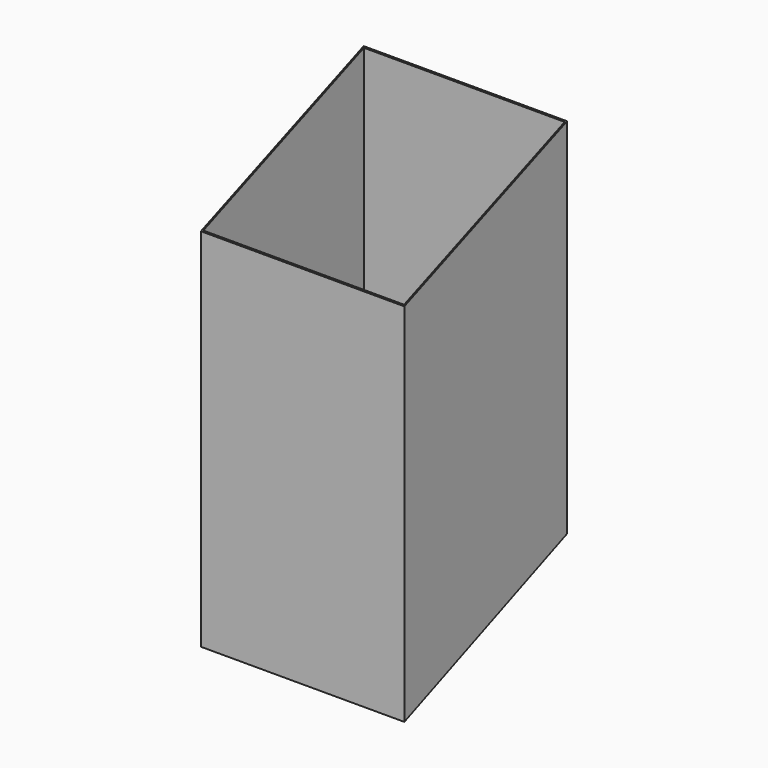
from build123d import *

# Parameters (mm, degrees)
F0_W          = 456
F0_H          = 456
F0_W_2        = 450
F0_H_2        = 450
F2_DEPTH      = 1000
F3_DEPTH      = 228.001
F3_DEPTH_BACK = 228.001
F5_DEPTH      = 456.001


with BuildPart() as f2:
    # F0 (on Top) → F2 (new body)
    with BuildSketch(Plane.XY):
        Rectangle(F0_W, F0_H)
        Rectangle(F0_W_2, F0_H_2, mode=Mode.SUBTRACT)
    extrude(amount=F2_DEPTH)

    # F1 (on Right) → F3 (cut, two sides)
    with BuildSketch(Plane.YZ) as f3_sk:
        Polygon((-228, -173.997311), (228, -173.997311), (228, 186.002689), (-228, 0), align=None)
    extrude(amount=F3_DEPTH, mode=Mode.SUBTRACT)
    extrude(f3_sk.sketch, amount=-F3_DEPTH_BACK, mode=Mode.SUBTRACT)

    # F4 (on face) → F5 (cut, through all)
    with BuildSketch(Plane.YZ.offset(228)):
        Polygon((-228, 1000), (-228, 820), (228, 1000), align=None)
    extrude(amount=-F5_DEPTH, mode=Mode.SUBTRACT)


solid = f2.part
